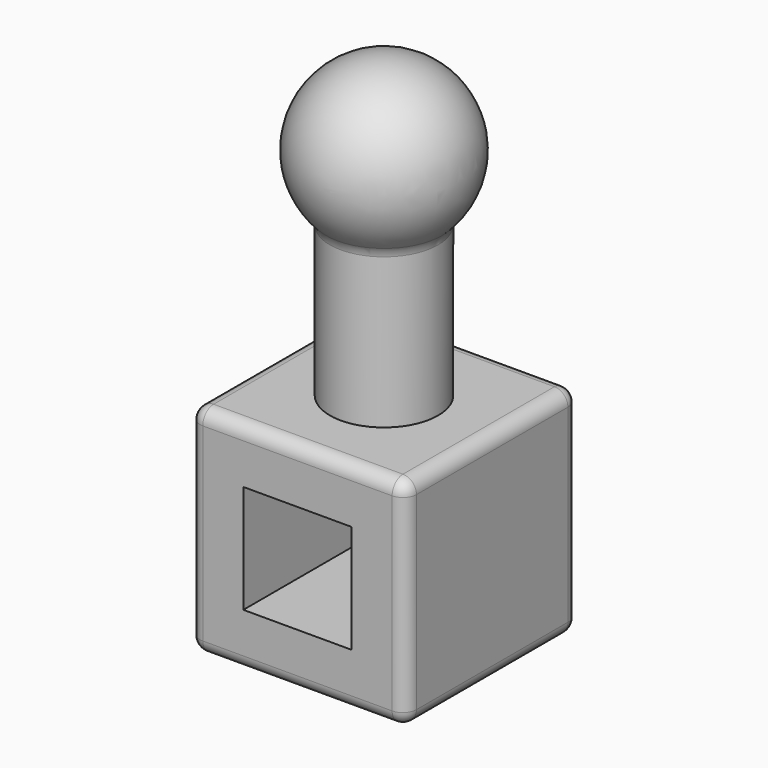
from build123d import *

# Parameters (mm, degrees)
F0_W     = 101.6
F0_H     = 101.6
F1_DEPTH = 101.6
F2_R     = 25.4
F3_DEPTH = 101.6
F6_W     = 50.8
F6_H     = 50.8
F7_DEPTH = 101.6
F8_R     = 6.35


with BuildPart() as f1:
    # F0 (on Top) → F1 (new body)
    with BuildSketch(Plane.XY):
        Rectangle(F0_W, F0_H)
    extrude(amount=F1_DEPTH)

    # F2 (on face) → F3 (join)
    with BuildSketch(Plane.XY.offset(101.6)):
        Circle(F2_R)
    extrude(amount=F3_DEPTH)

    # F4 (on face) → F5 (revolve)
    with BuildSketch(Plane.XY.offset(203.2)):
        with BuildLine():
            Line((0, -25.4), (0, -38.1))
            ThreePointArc((0, -38.1), (38.1, 0), (0, 38.1))
            Line((0, 38.1), (0, 25.4))
            ThreePointArc((0, 25.4), (17.9605122421, 17.9605122421), (25.4, 0))
            ThreePointArc((25.4, 0), (17.9605122421, -17.9605122421), (0, -25.4))
        make_face()
        with BuildLine():
            Line((0, 25.4), (0, -25.4))
            ThreePointArc((0, -25.4), (17.9605122421, -17.9605122421), (25.4, 0))
            ThreePointArc((25.4, 0), (17.9605122421, 17.9605122421), (0, 25.4))
        make_face()
    revolve(axis=Axis((0, 0, 203.2), (0, -1, 0)))

    # F6 (on face) → F7 (cut)
    with BuildSketch(Plane.XZ.offset(50.8)):
        with Locations((0, 50.8)):
            Rectangle(F6_W, F6_H)
    extrude(amount=-F7_DEPTH, mode=Mode.SUBTRACT)

    # F8
    f8_edges = [f1.edges().sort_by_distance(p)[0] for p in [
        (0, 50.8, 101.6),
        (50.8, 0, 101.6),
        (0, -50.8, 101.6),
        (-50.8, 50.8, 50.8),
        (-50.8, -50.8, 50.8),
        (-50.8, 0, 0),
        (-50.8, 0, 101.6),
        (50.8, 50.8, 50.8),
        (0, 50.8, 0),
        (50.8, -50.8, 50.8),
        (0, -50.8, 0),
        (50.8, 0, 0),
        (-25.4, 0, 174.801937),
    ]]
    fillet(f8_edges, radius=F8_R)


solid = f1.part
